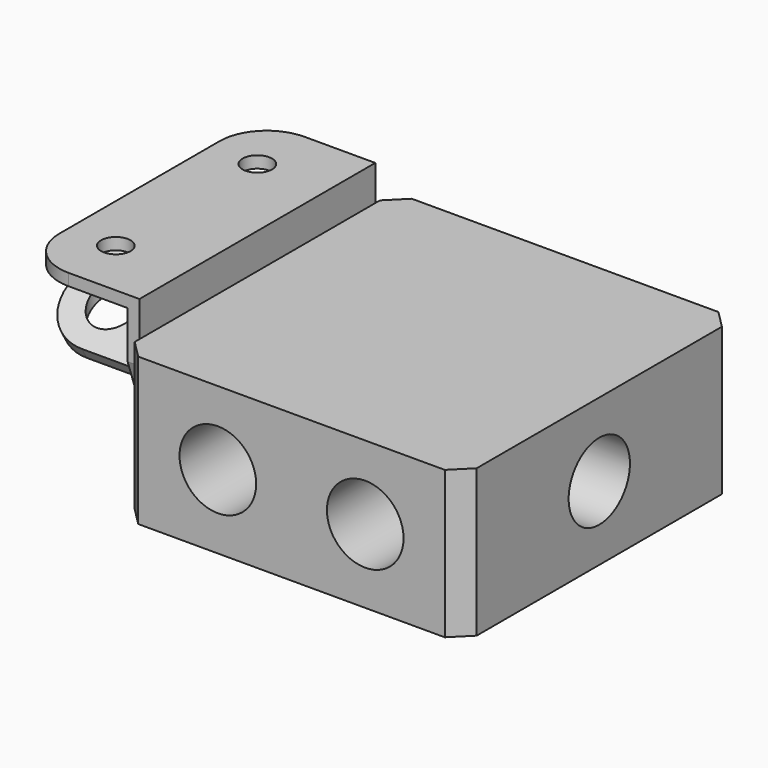
from build123d import *

# Parameters (mm, degrees)
F0_W      = 58
F0_H      = 58
F1_DEPTH  = 25
F2_SIZE   = 3
F3_R      = 6.5
F4_DEPTH  = 58.001
F5_DEPTH  = 25
F6_R      = 6.5
F7_DEPTH  = 25
F8_R      = 2.5
F9_DEPTH  = 5
F10_R     = 2.5
F11_DEPTH = 2
F12_DEPTH = 20
F13_R     = 2.5
F14_DEPTH = 3
F15_START = -3
F13_R_2   = 4
F15_DEPTH = 28.001
F16_R     = 8


with BuildPart() as f1:
    # F0 (on Top) → F1 (new body)
    with BuildSketch(Plane.XY):
        Rectangle(F0_W, F0_H)
    extrude(amount=F1_DEPTH)

    # F2
    f2_edges = [f1.edges().sort_by_distance(p)[0] for p in [
        (-29, -29, 12.5),
        (29, -29, 12.5),
        (29, 29, 12.5),
        (-29, 29, 12.5),
    ]]
    chamfer(f2_edges, length=F2_SIZE)

    # F3 (on face) → F4 (cut, through all)
    with BuildSketch(Plane.XZ.offset(29)):
        with Locations((-12.5, 12.5)):
            Circle(F3_R)
    extrude(amount=-F4_DEPTH, mode=Mode.SUBTRACT)

    # F3 (on face) → F5 (cut)
    with BuildSketch(Plane.XZ.offset(29)):
        with Locations((12.5, 12.5)):
            Circle(F3_R)
    extrude(amount=-F5_DEPTH, mode=Mode.SUBTRACT)

    # F6 (on face) → F7 (cut)
    with BuildSketch(Plane.YZ.offset(29)):
        with Locations((0, 12.5)):
            Circle(F6_R)
    extrude(amount=-F7_DEPTH, mode=Mode.SUBTRACT)

    # F8 (on face) → F9 (cut)
    with BuildSketch(Plane(origin=(-29, 0, 0), x_dir=(0, -1, 0), z_dir=(-1, 0, 0))):
        with Locations((-13, 12.5)):
            Circle(F8_R)
        with Locations((13, 12.5)):
            Circle(F8_R)
    extrude(amount=-F9_DEPTH, mode=Mode.SUBTRACT)


with BuildPart() as f11:
    # F10 (on face) → F11 (new body)
    with BuildSketch(Plane(origin=(-29, 0, 0), x_dir=(0, -1, 0), z_dir=(-1, 0, 0))):
        with BuildLine():
            Line((-25, 21), (-21.6987916019, 11.4125946606))
            ThreePointArc((-21.6987916019, 11.4125946606), (-18.2541992292, 7.4525425742), (-13.0251998641, 7))
            Line((-13.0251998641, 7), (0, 11))
            Line((0, 11), (13.0251998641, 7))
            ThreePointArc((13.0251998641, 7), (18.2541992292, 7.4525425742), (21.6987916019, 11.4125946606))
            Line((21.6987916019, 11.4125946606), (25, 21))
            Line((25, 21), (25, 25))
            Line((25, 25), (10.9282032303, 25))
            Line((10.9282032303, 25), (22.1865334795, 18.5))
            Line((22.1865334795, 18.5), (21.1865334795, 16.7679491924))
            Line((21.1865334795, 16.7679491924), (6.9282032303, 25))
            Line((6.9282032303, 25), (-6.9282032303, 25))
            Line((-6.9282032303, 25), (-21.1865334795, 16.7679491924))
            Line((-21.1865334795, 16.7679491924), (-22.1865334795, 18.5))
            Line((-22.1865334795, 18.5), (-10.9282032303, 25))
            Line((-10.9282032303, 25), (-25, 25))
            Line((-25, 25), (-25, 21))
        make_face()
        with Locations((-13, 12.5)):
            Circle(F10_R, mode=Mode.SUBTRACT)
        with Locations((13, 12.5)):
            Circle(F10_R, mode=Mode.SUBTRACT)
        Polygon((-25, 29), (-25, 25), (-10.9282032303, 25), (-4, 29), align=None)
        Polygon((-4, 29), (-10.9282032303, 25), (-6.9282032303, 25), (0, 29), align=None)
        Polygon((0, 29), (-6.9282032303, 25), (6.9282032303, 25), align=None)
        Polygon((-6.9282032303, 25), (-10.9282032303, 25), (-22.1865334795, 18.5), (-21.1865334795, 16.7679491924), align=None)
        Polygon((10.9282032303, 25), (6.9282032303, 25), (21.1865334795, 16.7679491924), (22.1865334795, 18.5), align=None)
        Polygon((4, 29), (0, 29), (6.9282032303, 25), (10.9282032303, 25), align=None)
        Polygon((25, 29), (4, 29), (10.9282032303, 25), (25, 25), align=None)
        Polygon((-25, 31), (-25, 29), (-4, 29), (0, 29), (4, 29), (25, 29), (25, 31), (0, 31), align=None)
    extrude(amount=F11_DEPTH)

    # F10 (on face) → F12 (join)
    with BuildSketch(Plane(origin=(-29, 0, 0), x_dir=(0, -1, 0), z_dir=(-1, 0, 0))):
        Polygon((-25, 31), (-25, 29), (-4, 29), (0, 29), (4, 29), (25, 29), (25, 31), (0, 31), align=None)
        Polygon((-4, 29), (-10.9282032303, 25), (-6.9282032303, 25), (0, 29), align=None)
        Polygon((-6.9282032303, 25), (-10.9282032303, 25), (-22.1865334795, 18.5), (-21.1865334795, 16.7679491924), align=None)
        Polygon((4, 29), (0, 29), (6.9282032303, 25), (10.9282032303, 25), align=None)
        Polygon((10.9282032303, 25), (6.9282032303, 25), (21.1865334795, 16.7679491924), (22.1865334795, 18.5), align=None)
    extrude(amount=F12_DEPTH)

    # F13 (on face) → F14 (cut)
    with BuildSketch(Plane.XY.offset(31)):
        with Locations((-41, -15)):
            Circle(F13_R)
        with Locations((-41, 15)):
            Circle(F13_R)
    extrude(amount=-F14_DEPTH, mode=Mode.SUBTRACT)

    # F13 (on face) → F15 (cut)
    with BuildSketch(Plane.XY.offset(31).offset(F15_START)):
        with Locations((-41, 15)):
            Circle(F13_R_2)
        with Locations((-41, 15)):
            Circle(F13_R, mode=Mode.SUBTRACT)
        with Locations((-41, -15)):
            Circle(F13_R_2)
        with Locations((-41, -15)):
            Circle(F13_R, mode=Mode.SUBTRACT)
        with Locations((-41, -15)):
            Circle(F13_R)
        with Locations((-41, 15)):
            Circle(F13_R)
    extrude(amount=-F15_DEPTH, mode=Mode.SUBTRACT)

    # F16
    f16_edges = [f11.edges().sort_by_distance(p)[0] for p in [
        (-49, 25, 30),
        (-49, 21.686533, 17.633975),
        (-49, -25, 30),
        (-49, -21.686533, 17.633975),
    ]]
    fillet(f16_edges, radius=F16_R)


solid = Compound([f1.part, f11.part])
